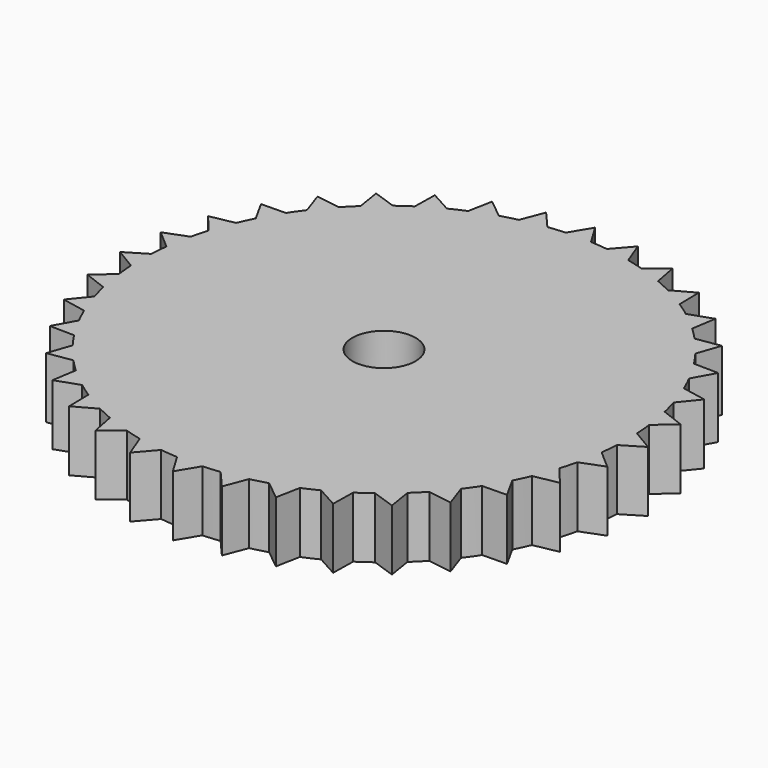
from build123d import *

# Parameters (mm, degrees)
F0_R     = 3.302
F1_DEPTH = 6.35


with BuildPart() as f1:
    # F0 (on Top) → F1 (new body)
    with BuildSketch(Plane.XY):
        with BuildLine():
            ThreePointArc((25.365618, -1.321137), (25.391403, -0.660792), (25.4, 0))
            ThreePointArc((25.4, 0), (25.391403, 0.660792), (25.365618, 1.321137))
            ThreePointArc((25.365618, 1.321137), (25.303345, 2.213756), (25.209671, 3.103627))
            ThreePointArc((25.209671, 3.103627), (25.014117, 4.410664), (24.750845, 5.70576))
            ThreePointArc((24.750845, 5.70576), (24.534516, 6.574004), (24.28774, 7.434089))
            ThreePointArc((24.28774, 7.434089), (23.868193, 8.687312), (23.384029, 9.917015))
            ThreePointArc((23.384029, 9.917015), (23.020218, 10.734504), (22.627839, 11.538671))
            ThreePointArc((22.627839, 11.538671), (21.997045, 12.7), (21.306701, 13.826948))
            ThreePointArc((21.306701, 13.826948), (20.806462, 14.568841), (20.280402, 15.292655))
            ThreePointArc((20.280402, 15.292655), (19.457529, 16.326805), (18.58198, 17.316755))
            ThreePointArc((18.58198, 17.316755), (17.960512, 17.960512), (17.316755, 18.58198))
            ThreePointArc((17.316755, 18.58198), (16.326805, 19.457529), (15.292655, 20.280402))
            ThreePointArc((15.292655, 20.280402), (14.568841, 20.806462), (13.826948, 21.306701))
            ThreePointArc((13.826948, 21.306701), (12.7, 21.997045), (11.538671, 22.627839))
            ThreePointArc((11.538671, 22.627839), (10.734504, 23.020218), (9.917015, 23.384029))
            ThreePointArc((9.917015, 23.384029), (8.687312, 23.868193), (7.434089, 24.28774))
            ThreePointArc((7.434089, 24.28774), (6.574004, 24.534516), (5.70576, 24.750845))
            ThreePointArc((5.70576, 24.750845), (4.410664, 25.014117), (3.103627, 25.209671))
            ThreePointArc((3.103627, 25.209671), (2.213756, 25.303345), (1.321137, 25.365618))
            ThreePointArc((1.321137, 25.365618), (0.660792, 25.391403), (0, 25.4))
            ThreePointArc((0, 25.4), (-0.660792, 25.391403), (-1.321137, 25.365618))
            ThreePointArc((-1.321137, 25.365618), (-2.213756, 25.303345), (-3.103627, 25.209671))
            ThreePointArc((-3.103627, 25.209671), (-4.410664, 25.014117), (-5.70576, 24.750845))
            ThreePointArc((-5.70576, 24.750845), (-6.574004, 24.534516), (-7.434089, 24.28774))
            ThreePointArc((-7.434089, 24.28774), (-8.687312, 23.868193), (-9.917015, 23.384029))
            ThreePointArc((-9.917015, 23.384029), (-10.734504, 23.020218), (-11.538671, 22.627839))
            ThreePointArc((-11.538671, 22.627839), (-12.7, 21.997045), (-13.826948, 21.306701))
            ThreePointArc((-13.826948, 21.306701), (-14.568841, 20.806462), (-15.292655, 20.280402))
            ThreePointArc((-15.292655, 20.280402), (-16.326805, 19.457529), (-17.316755, 18.58198))
            ThreePointArc((-17.316755, 18.58198), (-17.960512, 17.960512), (-18.58198, 17.316755))
            ThreePointArc((-18.58198, 17.316755), (-19.457529, 16.326805), (-20.280402, 15.292655))
            ThreePointArc((-20.280402, 15.292655), (-20.806462, 14.568841), (-21.306701, 13.826948))
            ThreePointArc((-21.306701, 13.826948), (-21.997045, 12.7), (-22.627839, 11.538671))
            ThreePointArc((-22.627839, 11.538671), (-23.020218, 10.734504), (-23.384029, 9.917015))
            ThreePointArc((-23.384029, 9.917015), (-23.868193, 8.687312), (-24.28774, 7.434089))
            ThreePointArc((-24.28774, 7.434089), (-24.534516, 6.574004), (-24.750845, 5.70576))
            ThreePointArc((-24.750845, 5.70576), (-25.014117, 4.410664), (-25.209671, 3.103627))
            ThreePointArc((-25.209671, 3.103627), (-25.303345, 2.213756), (-25.365618, 1.321137))
            ThreePointArc((-25.365618, 1.321137), (-25.4, 0), (-25.365618, -1.321137))
            ThreePointArc((-25.365618, -1.321137), (-25.303345, -2.213756), (-25.209671, -3.103627))
            ThreePointArc((-25.209671, -3.103627), (-25.014117, -4.410664), (-24.750845, -5.70576))
            ThreePointArc((-24.750845, -5.70576), (-24.534516, -6.574004), (-24.28774, -7.434089))
            ThreePointArc((-24.28774, -7.434089), (-23.868193, -8.687312), (-23.384029, -9.917015))
            ThreePointArc((-23.384029, -9.917015), (-23.020218, -10.734504), (-22.627839, -11.538671))
            ThreePointArc((-22.627839, -11.538671), (-21.997045, -12.7), (-21.306701, -13.826948))
            ThreePointArc((-21.306701, -13.826948), (-20.806462, -14.568841), (-20.280402, -15.292655))
            ThreePointArc((-20.280402, -15.292655), (-19.457529, -16.326805), (-18.58198, -17.316755))
            ThreePointArc((-18.58198, -17.316755), (-17.960512, -17.960512), (-17.316755, -18.58198))
            ThreePointArc((-17.316755, -18.58198), (-16.326805, -19.457529), (-15.292655, -20.280402))
            ThreePointArc((-15.292655, -20.280402), (-14.568841, -20.806462), (-13.826948, -21.306701))
            ThreePointArc((-13.826948, -21.306701), (-12.7, -21.997045), (-11.538671, -22.627839))
            ThreePointArc((-11.538671, -22.627839), (-10.734504, -23.020218), (-9.917015, -23.384029))
            ThreePointArc((-9.917015, -23.384029), (-8.687312, -23.868193), (-7.434089, -24.28774))
            ThreePointArc((-7.434089, -24.28774), (-6.574004, -24.534516), (-5.70576, -24.750845))
            ThreePointArc((-5.70576, -24.750845), (-4.410664, -25.014117), (-3.103627, -25.209671))
            ThreePointArc((-3.103627, -25.209671), (-2.213756, -25.303345), (-1.321137, -25.365618))
            ThreePointArc((-1.321137, -25.365618), (0, -25.4), (1.321137, -25.365618))
            ThreePointArc((1.321137, -25.365618), (2.213756, -25.303345), (3.103627, -25.209671))
            ThreePointArc((3.103627, -25.209671), (4.410664, -25.014117), (5.70576, -24.750845))
            ThreePointArc((5.70576, -24.750845), (6.574004, -24.534516), (7.434089, -24.28774))
            ThreePointArc((7.434089, -24.28774), (8.687312, -23.868193), (9.917015, -23.384029))
            ThreePointArc((9.917015, -23.384029), (10.734504, -23.020218), (11.538671, -22.627839))
            ThreePointArc((11.538671, -22.627839), (12.7, -21.997045), (13.826948, -21.306701))
            ThreePointArc((13.826948, -21.306701), (14.568841, -20.806462), (15.292655, -20.280402))
            ThreePointArc((15.292655, -20.280402), (16.326805, -19.457529), (17.316755, -18.58198))
            ThreePointArc((17.316755, -18.58198), (17.960512, -17.960512), (18.58198, -17.316755))
            ThreePointArc((18.58198, -17.316755), (19.457529, -16.326805), (20.280402, -15.292655))
            ThreePointArc((20.280402, -15.292655), (20.806462, -14.568841), (21.306701, -13.826948))
            ThreePointArc((21.306701, -13.826948), (21.997045, -12.7), (22.627839, -11.538671))
            ThreePointArc((22.627839, -11.538671), (23.020218, -10.734504), (23.384029, -9.917015))
            ThreePointArc((23.384029, -9.917015), (23.868193, -8.687312), (24.28774, -7.434089))
            ThreePointArc((24.28774, -7.434089), (24.534516, -6.574004), (24.750845, -5.70576))
            ThreePointArc((24.750845, -5.70576), (25.014117, -4.410664), (25.209671, -3.103627))
            ThreePointArc((25.209671, -3.103627), (25.303345, -2.213756), (25.365618, -1.321137))
        make_face()
        Circle(F0_R, mode=Mode.SUBTRACT)
        with BuildLine():
            ThreePointArc((25.365618, 1.321137), (25.391403, 0.660792), (25.4, 0))
            ThreePointArc((25.4, 0), (25.391403, -0.660792), (25.365618, -1.321137))
            Line((25.365618, -1.321137), (27.56468, 0))
            Line((27.56468, 0), (25.365618, 1.321137))
        make_face()
        with BuildLine():
            ThreePointArc((24.750845, 5.70576), (25.014117, 4.410664), (25.209671, 3.103627))
            Line((25.209671, 3.103627), (27.145911, 4.786557))
            Line((27.145911, 4.786557), (24.750845, 5.70576))
        make_face()
        with BuildLine():
            Line((27.145911, -4.786557), (25.209671, -3.103627))
            ThreePointArc((25.209671, -3.103627), (25.014117, -4.410664), (24.750845, -5.70576))
            Line((24.750845, -5.70576), (27.145911, -4.786557))
        make_face()
        with BuildLine():
            ThreePointArc((23.384029, 9.917015), (23.868193, 8.687312), (24.28774, 7.434089))
            Line((24.28774, 7.434089), (25.902327, 9.427676))
            Line((25.902327, 9.427676), (23.384029, 9.917015))
        make_face()
        with BuildLine():
            Line((25.902327, -9.427676), (24.28774, -7.434089))
            ThreePointArc((24.28774, -7.434089), (23.868193, -8.687312), (23.384029, -9.917015))
            Line((23.384029, -9.917015), (25.902327, -9.427676))
        make_face()
        with BuildLine():
            ThreePointArc((21.306701, 13.826948), (21.997045, 12.7), (22.627839, 11.538671))
            Line((22.627839, 11.538671), (23.871713, 13.78234))
            Line((23.871713, 13.78234), (21.306701, 13.826948))
        make_face()
        with BuildLine():
            Line((23.871713, -13.78234), (22.627839, -11.538671))
            ThreePointArc((22.627839, -11.538671), (21.997045, -12.7), (21.306701, -13.826948))
            Line((21.306701, -13.826948), (23.871713, -13.78234))
        make_face()
        with BuildLine():
            ThreePointArc((18.58198, 17.316755), (19.457529, 16.326805), (20.280402, 15.292655))
            Line((20.280402, 15.292655), (21.11577, 17.718235))
            Line((21.11577, 17.718235), (18.58198, 17.316755))
        make_face()
        with BuildLine():
            Line((21.11577, -17.718235), (20.280402, -15.292655))
            ThreePointArc((20.280402, -15.292655), (19.457529, -16.326805), (18.58198, -17.316755))
            Line((18.58198, -17.316755), (21.11577, -17.718235))
        make_face()
        with BuildLine():
            ThreePointArc((15.292655, 20.280402), (16.326805, 19.457529), (17.316755, 18.58198))
            Line((17.316755, 18.58198), (17.718235, 21.11577))
            Line((17.718235, 21.11577), (15.292655, 20.280402))
        make_face()
        with BuildLine():
            Line((17.718235, -21.11577), (17.316755, -18.58198))
            ThreePointArc((17.316755, -18.58198), (16.326805, -19.457529), (15.292655, -20.280402))
            Line((15.292655, -20.280402), (17.718235, -21.11577))
        make_face()
        with BuildLine():
            ThreePointArc((11.538671, 22.627839), (12.7, 21.997045), (13.826948, 21.306701))
            Line((13.826948, 21.306701), (13.78234, 23.871713))
            Line((13.78234, 23.871713), (11.538671, 22.627839))
        make_face()
        with BuildLine():
            Line((13.78234, -23.871713), (13.826948, -21.306701))
            ThreePointArc((13.826948, -21.306701), (12.7, -21.997045), (11.538671, -22.627839))
            Line((11.538671, -22.627839), (13.78234, -23.871713))
        make_face()
        with BuildLine():
            ThreePointArc((7.434089, 24.28774), (8.687312, 23.868193), (9.917015, 23.384029))
            Line((9.917015, 23.384029), (9.427676, 25.902327))
            Line((9.427676, 25.902327), (7.434089, 24.28774))
        make_face()
        with BuildLine():
            Line((9.427676, -25.902327), (9.917015, -23.384029))
            ThreePointArc((9.917015, -23.384029), (8.687312, -23.868193), (7.434089, -24.28774))
            Line((7.434089, -24.28774), (9.427676, -25.902327))
        make_face()
        with BuildLine():
            ThreePointArc((3.103627, 25.209671), (4.410664, 25.014117), (5.70576, 24.750845))
            Line((5.70576, 24.750845), (4.786557, 27.145911))
            Line((4.786557, 27.145911), (3.103627, 25.209671))
        make_face()
        with BuildLine():
            Line((4.786557, -27.145911), (5.70576, -24.750845))
            ThreePointArc((5.70576, -24.750845), (4.410664, -25.014117), (3.103627, -25.209671))
            Line((3.103627, -25.209671), (4.786557, -27.145911))
        make_face()
        with BuildLine():
            ThreePointArc((0, 25.4), (0.660792, 25.391403), (1.321137, 25.365618))
            Line((1.321137, 25.365618), (0, 27.56468))
            Line((0, 27.56468), (0, 25.4))
        make_face()
        with BuildLine():
            Line((0, -27.56468), (1.321137, -25.365618))
            ThreePointArc((1.321137, -25.365618), (0, -25.4), (-1.321137, -25.365618))
            Line((-1.321137, -25.365618), (0, -27.56468))
        make_face()
        with BuildLine():
            ThreePointArc((-1.321137, 25.365618), (-0.660792, 25.391403), (0, 25.4))
            Line((0, 25.4), (0, 27.56468))
            Line((0, 27.56468), (-1.321137, 25.365618))
        make_face()
        with BuildLine():
            Line((-4.786557, -27.145911), (-3.103627, -25.209671))
            ThreePointArc((-3.103627, -25.209671), (-4.410664, -25.014117), (-5.70576, -24.750845))
            Line((-5.70576, -24.750845), (-4.786557, -27.145911))
        make_face()
        with BuildLine():
            ThreePointArc((-5.70576, 24.750845), (-4.410664, 25.014117), (-3.103627, 25.209671))
            Line((-3.103627, 25.209671), (-4.786557, 27.145911))
            Line((-4.786557, 27.145911), (-5.70576, 24.750845))
        make_face()
        with BuildLine():
            Line((-9.427676, -25.902327), (-7.434089, -24.28774))
            ThreePointArc((-7.434089, -24.28774), (-8.687312, -23.868193), (-9.917015, -23.384029))
            Line((-9.917015, -23.384029), (-9.427676, -25.902327))
        make_face()
        with BuildLine():
            ThreePointArc((-9.917015, 23.384029), (-8.687312, 23.868193), (-7.434089, 24.28774))
            Line((-7.434089, 24.28774), (-9.427676, 25.902327))
            Line((-9.427676, 25.902327), (-9.917015, 23.384029))
        make_face()
        with BuildLine():
            Line((-13.78234, -23.871713), (-11.538671, -22.627839))
            ThreePointArc((-11.538671, -22.627839), (-12.7, -21.997045), (-13.826948, -21.306701))
            Line((-13.826948, -21.306701), (-13.78234, -23.871713))
        make_face()
        with BuildLine():
            ThreePointArc((-13.826948, 21.306701), (-12.7, 21.997045), (-11.538671, 22.627839))
            Line((-11.538671, 22.627839), (-13.78234, 23.871713))
            Line((-13.78234, 23.871713), (-13.826948, 21.306701))
        make_face()
        with BuildLine():
            Line((-17.718235, -21.11577), (-15.292655, -20.280402))
            ThreePointArc((-15.292655, -20.280402), (-16.326805, -19.457529), (-17.316755, -18.58198))
            Line((-17.316755, -18.58198), (-17.718235, -21.11577))
        make_face()
        with BuildLine():
            ThreePointArc((-17.316755, 18.58198), (-16.326805, 19.457529), (-15.292655, 20.280402))
            Line((-15.292655, 20.280402), (-17.718235, 21.11577))
            Line((-17.718235, 21.11577), (-17.316755, 18.58198))
        make_face()
        with BuildLine():
            Line((-21.11577, -17.718235), (-18.58198, -17.316755))
            ThreePointArc((-18.58198, -17.316755), (-19.457529, -16.326805), (-20.280402, -15.292655))
            Line((-20.280402, -15.292655), (-21.11577, -17.718235))
        make_face()
        with BuildLine():
            ThreePointArc((-20.280402, 15.292655), (-19.457529, 16.326805), (-18.58198, 17.316755))
            Line((-18.58198, 17.316755), (-21.11577, 17.718235))
            Line((-21.11577, 17.718235), (-20.280402, 15.292655))
        make_face()
        with BuildLine():
            Line((-23.871713, -13.78234), (-21.306701, -13.826948))
            ThreePointArc((-21.306701, -13.826948), (-21.997045, -12.7), (-22.627839, -11.538671))
            Line((-22.627839, -11.538671), (-23.871713, -13.78234))
        make_face()
        with BuildLine():
            ThreePointArc((-22.627839, 11.538671), (-21.997045, 12.7), (-21.306701, 13.826948))
            Line((-21.306701, 13.826948), (-23.871713, 13.78234))
            Line((-23.871713, 13.78234), (-22.627839, 11.538671))
        make_face()
        with BuildLine():
            Line((-25.902327, -9.427676), (-23.384029, -9.917015))
            ThreePointArc((-23.384029, -9.917015), (-23.868193, -8.687312), (-24.28774, -7.434089))
            Line((-24.28774, -7.434089), (-25.902327, -9.427676))
        make_face()
        with BuildLine():
            ThreePointArc((-24.28774, 7.434089), (-23.868193, 8.687312), (-23.384029, 9.917015))
            Line((-23.384029, 9.917015), (-25.902327, 9.427676))
            Line((-25.902327, 9.427676), (-24.28774, 7.434089))
        make_face()
        with BuildLine():
            Line((-27.145911, -4.786557), (-24.750845, -5.70576))
            ThreePointArc((-24.750845, -5.70576), (-25.014117, -4.410664), (-25.209671, -3.103627))
            Line((-25.209671, -3.103627), (-27.145911, -4.786557))
        make_face()
        with BuildLine():
            ThreePointArc((-25.209671, 3.103627), (-25.014117, 4.410664), (-24.750845, 5.70576))
            Line((-24.750845, 5.70576), (-27.145911, 4.786557))
            Line((-27.145911, 4.786557), (-25.209671, 3.103627))
        make_face()
        with BuildLine():
            Line((-27.56468, 0), (-25.365618, -1.321137))
            ThreePointArc((-25.365618, -1.321137), (-25.4, 0), (-25.365618, 1.321137))
            Line((-25.365618, 1.321137), (-27.56468, 0))
        make_face()
    extrude(amount=F1_DEPTH)


solid = f1.part
